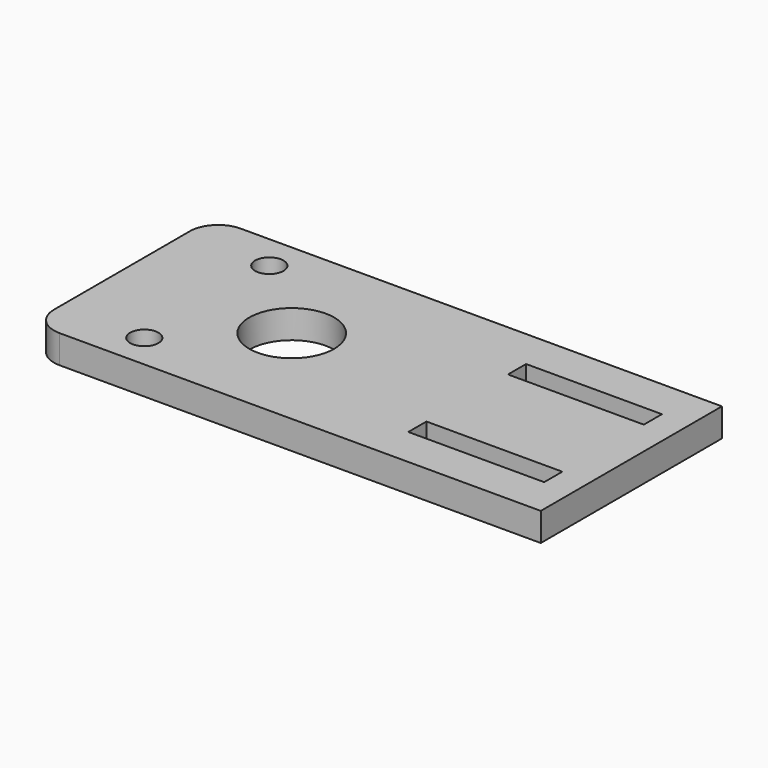
from build123d import *

# Parameters (mm, degrees)
F0_W     = 30.48
F0_H     = 5.08
F0_R     = 3.175
F1_DEPTH = 6.35
F2_DEPTH = 6.35


with BuildPart() as f1:
    # F0 (on Top) → F1 (new body)
    with BuildSketch(Plane.XY):
        with BuildLine():
            Line((38.1, -25.4), (38.1, 25.4))
            Line((38.1, 25.4), (-38.1, 25.4))
            Line((-38.1, 25.4), (-38.1, 9.525))
            ThreePointArc((-38.1, 9.525), (-31.3648079092, 6.7351920908), (-28.575, 0))
            ThreePointArc((-28.575, 0), (-31.3648079092, -6.7351920908), (-38.1, -9.525))
            Line((-38.1, -9.525), (-38.1, -25.4))
            Line((-38.1, -25.4), (38.1, -25.4))
        make_face()
        with Locations((16.51, -13.97)):
            Rectangle(F0_W, F0_H, mode=Mode.SUBTRACT)
        with Locations((16.51, 13.97)):
            Rectangle(F0_W, F0_H, mode=Mode.SUBTRACT)
        with BuildLine():
            Line((-38.1, 9.525), (-38.1, 25.4))
            Line((-38.1, 25.4), (-69.85, 25.4))
            ThreePointArc((-69.85, 25.4), (-74.3401280605, 23.5401280605), (-76.2, 19.05))
            Line((-76.2, 19.05), (-76.2, -19.05))
            ThreePointArc((-76.2, -19.05), (-74.3401280605, -23.5401280605), (-69.85, -25.4))
            Line((-69.85, -25.4), (-38.1, -25.4))
            Line((-38.1, -25.4), (-38.1, -9.525))
            ThreePointArc((-38.1, -9.525), (-47.625, 0), (-38.1, 9.525))
        make_face()
        with Locations((-57.15, -17.526)):
            Circle(F0_R, mode=Mode.SUBTRACT)
        with Locations((-57.15, 17.526)):
            Circle(F0_R, mode=Mode.SUBTRACT)
    extrude(amount=F1_DEPTH)

    # F2 (add): a face of the model
    f2_faces = [f1.faces().sort_by_distance(p)[0] for p in [
        (-19.4796748363, 0, 6.35),
    ]]
    extrude(f2_faces, amount=-F2_DEPTH)


solid = f1.part
